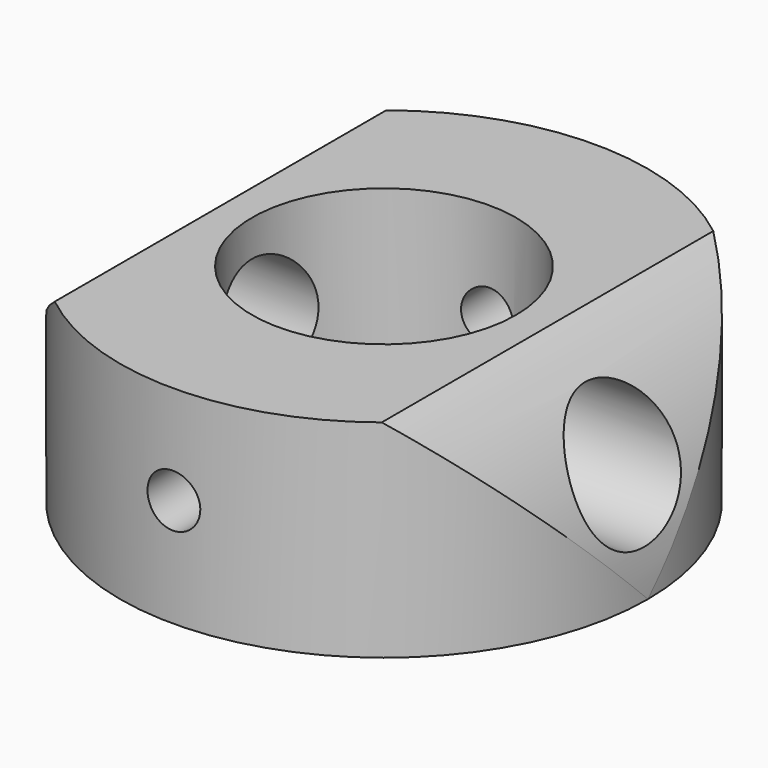
from build123d import *

# Parameters (mm, degrees)
F0_R     = 25
F0_R_2   = 12.5
F3_DEPTH = 50
F1_W     = 50
F1_H     = 19.626164
F1_R     = 5.973153
F4_DEPTH = 25
F2_R     = 25
F2_R_2   = 2.5
F5_DEPTH = 25


with BuildPart() as f3:
    # F0 (on Top) → F3 (new body)
    with BuildSketch(Plane.XY):
        Circle(F0_R)
        Circle(F0_R_2, mode=Mode.SUBTRACT)
    extrude(amount=F3_DEPTH)


with BuildPart() as f4:
    # F1 (on Right) → F4 (new body, symmetric)
    with BuildSketch(Plane.YZ):
        with Locations((0, 9.813082)):
            Rectangle(F1_W, F1_H)
        with Locations((0, 10.210484)):
            Circle(F1_R, mode=Mode.SUBTRACT)
    extrude(amount=F4_DEPTH, both=True)


with BuildPart() as f5:
    # F2 (on Front) → F5 (new body, symmetric)
    with BuildSketch(Plane.XZ):
        Circle(F2_R)
        with Locations((0, 10.25444)):
            Circle(F2_R_2, mode=Mode.SUBTRACT)
    extrude(amount=F5_DEPTH, both=True)


with BuildPart() as f3_1:
    add(f3.part)

    # F6: intersect F4, F5
    add(f4.part, mode=Mode.INTERSECT)
    add(f5.part, mode=Mode.INTERSECT)


solid = f3_1.part
